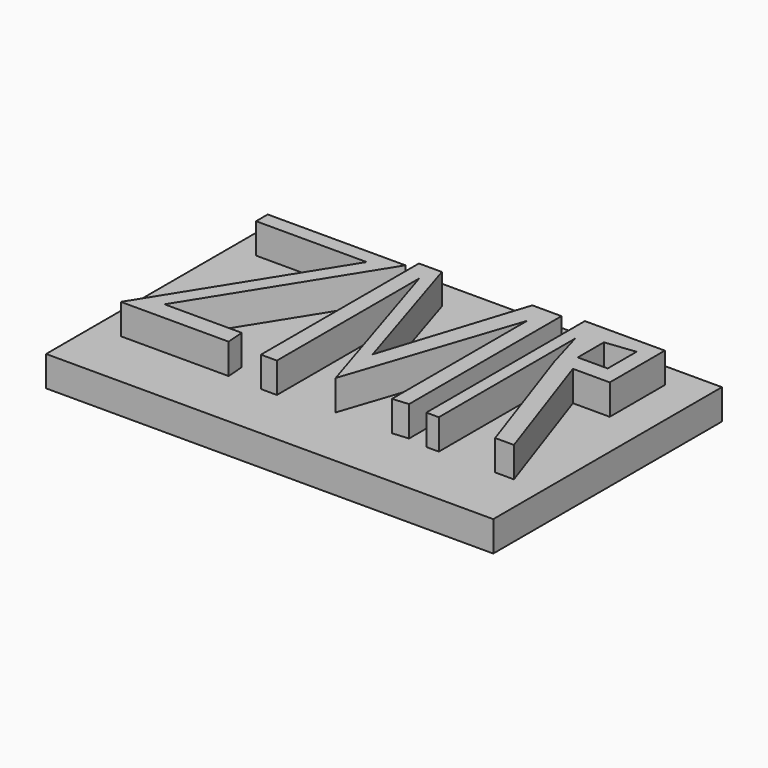
from build123d import *

# Parameters (mm, degrees)
F3_DEPTH = 25.4
F4_DEPTH = 25.4
F5_DEPTH = 25.4
F6_W     = 187.418692
F6_H     = 119.796396
F7_DEPTH = 12.7


with BuildPart() as f3:
    # F0 (on Top) → F3 (new body)
    with BuildSketch(Plane.XY):
        Polygon((-67.039348, 48.530657), (-67.039348, 42.40967), (-20.694755, 42.40967), (-65.873444, -29.87623), (-20.694755, -29.87623), (-21.277705, -22.297869), (-53.631477, -22.297869), (-9.327213, 48.530657), align=None)
    extrude(amount=F3_DEPTH)


with BuildPart() as f4:
    # F1 (on Top) → F4 (new body)
    with BuildSketch(Plane.XY):
        Polygon((-6.703934, -30.45918), (0, -30.45918), (0, 44.158522), (22.735082, -28.127378), (46.344589, 42.701147), (46.344589, -28.127378), (53.048525, -27.544428), (53.048525, 52.31984), (40.806558, 52.31984), (21.721622, -7.476352), (2.914755, 52.31984), (-6.703934, 52.31984), align=None)
    extrude(amount=F4_DEPTH)


with BuildPart() as f5:
    # F2 (on Top) → F5 (new body)
    with BuildSketch(Plane.XY):
        Polygon((66.456392, -28.710328), (66.456392, 42.701147), (71.411476, 25.504097), (90.065897, -28.710328), (97.935744, -28.710328), (79.281308, 25.504097), (94.729505, 25.504097), (94.729505, 54.360166), (61.209839, 54.360166), (61.209839, -28.710328), align=None)
        Polygon((75.492129, 32.790981), (75.492129, 46.49033), (88.02557, 47.947705), (88.02557, 32.790981), align=None, mode=Mode.SUBTRACT)
    extrude(amount=F5_DEPTH)


with BuildPart() as f7:
    # F6 (on Top) → F7 (new body)
    with BuildSketch(Plane.XY):
        with Locations((16.551647, 4.955083)):
            Rectangle(F6_W, F6_H)
    extrude(amount=F7_DEPTH)


solid = Compound([f3.part, f4.part, f5.part, f7.part])
